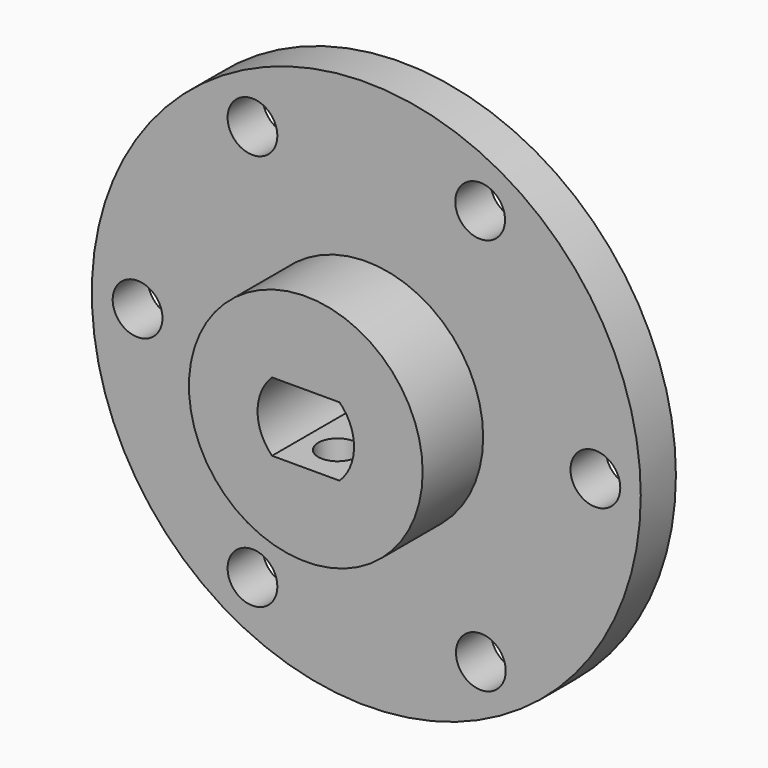
from build123d import *

# Parameters (mm, degrees)
F0_R     = 12.1666
F1_DEPTH = 12.446
F0_R_2   = 28.575
F0_R_3   = 2.5908
F2_DEPTH = 4.572
F4_D     = 4.0386
F4_DEPTH = 28.576


with BuildPart() as f1:
    # F0 (on Front) → F1 (new body)
    with BuildSketch(Plane.XZ):
        Circle(F0_R)
        with BuildLine():
            ThreePointArc((-3.5111765908, -3.5917490267), (-5.02285, 0), (-3.5111765908, 3.5917490267))
            Line((-3.5111765908, 3.5917490267), (3.5111765908, 3.5917490267))
            ThreePointArc((3.5111765908, 3.5917490267), (5.02285, 0), (3.5111765908, -3.5917490267))
            Line((3.5111765908, -3.5917490267), (-3.5111765908, -3.5917490267))
        make_face(mode=Mode.SUBTRACT)
    extrude(amount=F1_DEPTH)

    # F0 (on Front) → F2 (join)
    with BuildSketch(Plane.XZ):
        Circle(F0_R_2)
        with Locations((-11.85156133, -20.6537079066)):
            Circle(F0_R_3, mode=Mode.SUBTRACT)
        with Locations((11.9244238196, -20.6537079066)):
            Circle(F0_R_3, mode=Mode.SUBTRACT)
        with Locations((-23.8124163945, 0.063100767)):
            Circle(F0_R_3, mode=Mode.SUBTRACT)
        with Locations((-11.85156133, 20.6537079066)):
            Circle(F0_R_3, mode=Mode.SUBTRACT)
        Circle(F0_R, mode=Mode.SUBTRACT)
        with Locations((23.8488476393, 0)):
            Circle(F0_R_3, mode=Mode.SUBTRACT)
        with Locations((11.85156133, 20.6537079066)):
            Circle(F0_R_3, mode=Mode.SUBTRACT)
    extrude(amount=F2_DEPTH)

    # F4 (through all, one way)
    with BuildSketch(Plane.XY):
        with Locations((0, -8.3013873111)):
            Circle(F4_D / 2)
    extrude(amount=-F4_DEPTH, mode=Mode.SUBTRACT)


solid = f1.part
